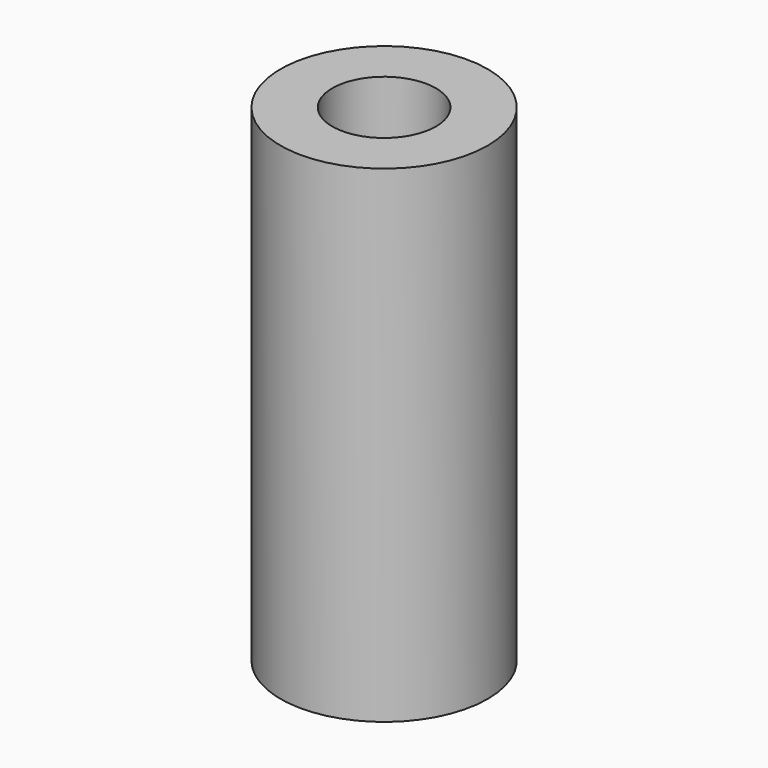
from build123d import *

# Parameters (mm, degrees)
SKETCH316_R      = 1
EXTRUDE183_DEPTH = 9.4
SKETCH317_R      = 2
EXTRUDE184_DEPTH = 9.4


with BuildPart() as extrude183:
    # Sketch316 → Extrude183 (new body)
    with BuildSketch(Plane.XY.offset(6.6)):
        with Locations((36, -22)):
            Circle(SKETCH316_R)
    extrude(amount=EXTRUDE183_DEPTH)


with BuildPart() as cut082:
    # Sketch317 → Extrude184 (new body)
    with BuildSketch(Plane.XY.offset(6.6)):
        with Locations((36, -22)):
            Circle(SKETCH317_R)
    extrude(amount=EXTRUDE184_DEPTH)

    # Cut082: cut Extrude183
    add(extrude183.part, mode=Mode.SUBTRACT)


with BuildPart() as cut082_1:
    # Cut082 placement: moved
    add(cut082.part.moved(Location((-51, 44, 0))))


solid = cut082_1.part
